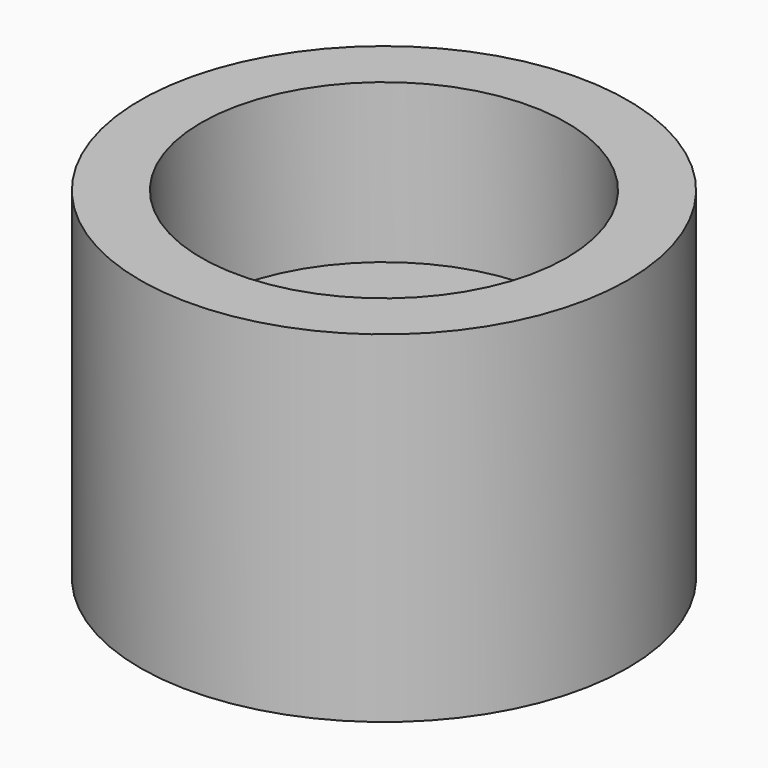
from build123d import *

# Parameters (mm, degrees)
SKETCH_R        = 4
PAD_DEPTH       = 5.6
SKETCH001_R     = 3
POCKET_DEPTH    = 2.6
SKETCH002_R     = 1
POCKET001_DEPTH = 5


with BuildPart() as part:
    # Sketch → Pad (new body)
    with BuildSketch(Plane.XY):
        Circle(SKETCH_R)
    extrude(amount=PAD_DEPTH)

    # Sketch001 (on Face3 of Pad) → Pocket (cut)
    with BuildSketch(Plane.XY.offset(5.6)):
        Circle(SKETCH001_R)
    extrude(amount=-POCKET_DEPTH, mode=Mode.SUBTRACT)

    # Sketch002 (on Face5 of Pocket) → Pocket001 (cut)
    with BuildSketch(Plane.XY.offset(3)):
        Circle(SKETCH002_R)
    extrude(amount=-POCKET001_DEPTH, mode=Mode.SUBTRACT)


solid = part.part
